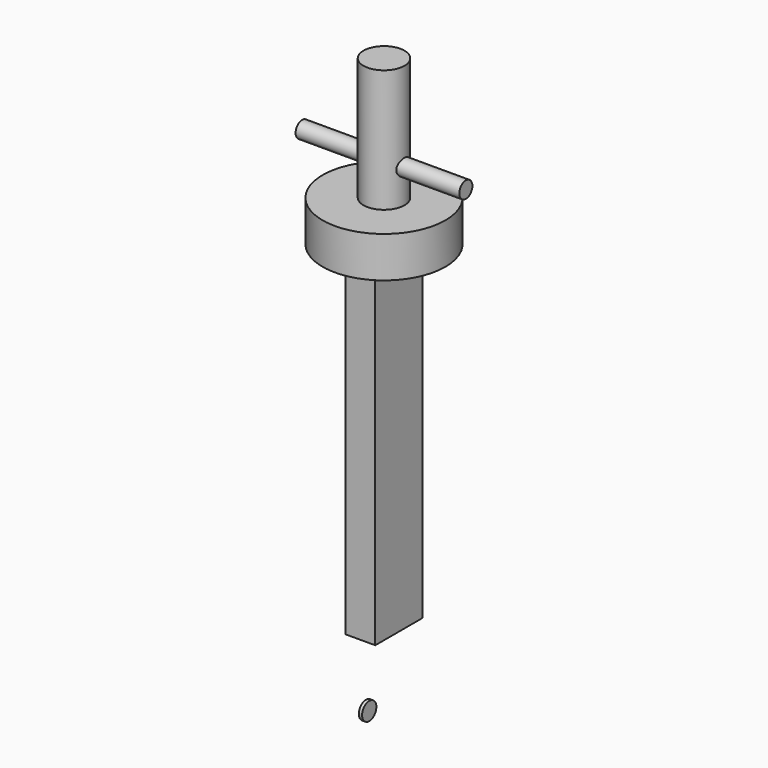
from build123d import *

# Parameters (mm, degrees)
F0_R      = 37.5
F1_DEPTH  = 25
F2_W      = 18.03344
F2_H      = 35.90303
F3_DEPTH  = 205.5
F4_R      = 5.441596
F5_DEPTH  = 2
F6_R      = 12.542088
F7_DEPTH  = 75
F8_R      = 5
F9_DEPTH  = 50
F10_DEPTH = 50


with BuildPart() as f1:
    # F0 (on Top) → F1 (new body)
    with BuildSketch(Plane.XY):
        Circle(F0_R)
    extrude(amount=F1_DEPTH)

    # F2 (on face) → F3 (join)
    with BuildSketch(Plane(origin=(0, 0, 0), x_dir=(1, 0, 0), z_dir=(0, 0, -1))):
        Rectangle(F2_W, F2_H)
    extrude(amount=F3_DEPTH)

    # F6 (on face) → F7 (join)
    with BuildSketch(Plane.XY.offset(25)):
        Circle(F6_R)
    extrude(amount=F7_DEPTH)

    # F8 (on Right) → F9 (join)
    with BuildSketch(Plane.YZ):
        with Locations((0, 45.579873)):
            Circle(F8_R)
    extrude(amount=F9_DEPTH)

    # F8 (on Right) → F10 (join)
    with BuildSketch(Plane.YZ):
        with Locations((0, 45.579873)):
            Circle(F8_R)
    extrude(amount=-F10_DEPTH)


with BuildPart() as f5:
    # F4 (on face) → F5 (new body)
    with BuildSketch(Plane(origin=(-9.01672, 0, 0), x_dir=(0, -1, 0), z_dir=(-1, 0, 0))):
        with Locations((0, -254)):
            Circle(F4_R)
    extrude(amount=F5_DEPTH)


solid = Compound([f1.part, f5.part])
